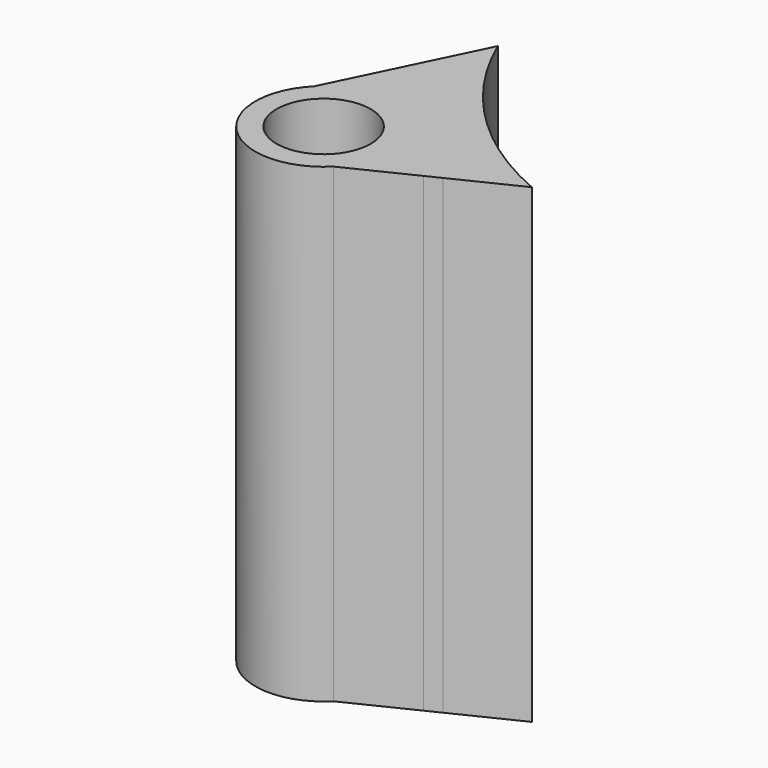
from build123d import *

# Parameters (mm, degrees)
F1_DEPTH = 25.4


with BuildPart() as f1:
    # F0 (on Top) → F1 (new body)
    with BuildSketch(Plane.XY):
        with BuildLine():
            Line((-0.898026, 6.106574), (-2.604274, 2.604274))
            ThreePointArc((-2.604274, 2.604274), (-2.604274, -2.604274), (2.604274, -2.604274))
            Line((2.604274, -2.604274), (6.106574, -0.898026))
            Line((6.106574, -0.898026), (6.867985, -0.527082))
            Line((6.867985, -0.527082), (10.309378, 1.149494))
            ThreePointArc((10.309378, 1.149494), (4.849338, 4.849338), (1.149494, 10.309378))
            Line((1.149494, 10.309378), (-0.527082, 6.867985))
            Line((-0.527082, 6.867985), (-0.898026, 6.106574))
        make_face()
        with BuildLine():
            ThreePointArc((1.796051, 1.796051), (2.346654, 0.972016), (2.54, 0))
            ThreePointArc((2.54, 0), (-2.346654, -0.972016), (1.796051, 1.796051))
        make_face(mode=Mode.SUBTRACT)
    extrude(amount=F1_DEPTH)


solid = f1.part
